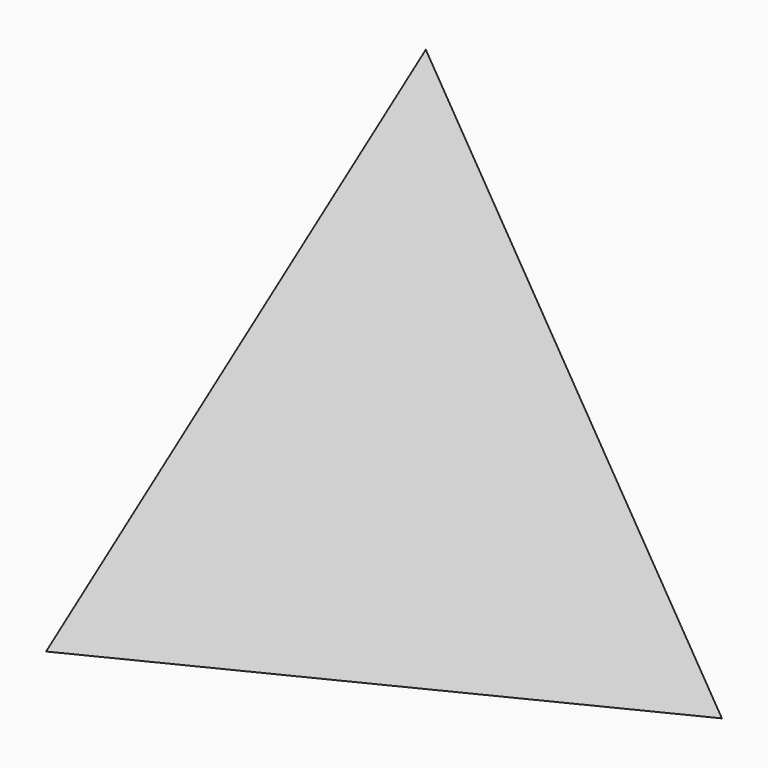
from build123d import *


with BuildPart() as f3:
    # F0 (on Top) → F3 section 0
    with BuildSketch(Plane.XY, mode=Mode.PRIVATE) as f3_s0:
        Polygon((-21.775418, 43.550825), (-26.828412, -40.633477), (48.60383, -2.917348), align=None)
    loft([f3_s0.sketch, Vertex(0, 0, 75)])


solid = f3.part
